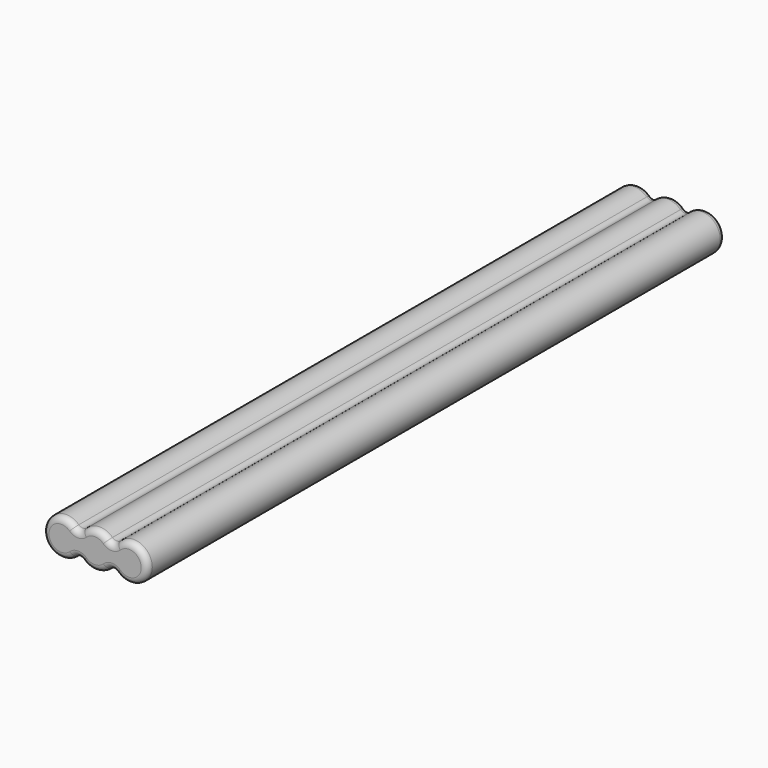
from build123d import *

# Parameters (mm, degrees)
F1_DEPTH = 74.6125
F2_R     = 1.27


with BuildPart() as f1:
    # F0 (on Front) → F1 (new body, symmetric)
    with BuildSketch(Plane.XZ):
        with BuildLine():
            ThreePointArc((-4.3248169823, -2.7897392181), (-3.4598535858, -2.4496522908), (-2.5948901894, -2.7897392181))
            ThreePointArc((-2.5948901894, -2.7897392181), (0.0337182552, -3.8098507949), (2.6438598106, -2.7433748015))
            ThreePointArc((2.6438598106, -2.7433748015), (3.5251464142, -2.3878330687), (4.4064330177, -2.7433748015))
            ThreePointArc((4.4064330177, -2.7433748015), (10.8602928284, 0), (4.4064330177, 2.7433748015))
            ThreePointArc((4.4064330177, 2.7433748015), (3.5251464142, 2.3878330687), (2.6438598106, 2.7433748015))
            ThreePointArc((2.6438598106, 2.7433748015), (0.0337182552, 3.8098507949), (-2.5948901894, 2.7897392181))
            ThreePointArc((-2.5948901894, 2.7897392181), (-3.4598535858, 2.4496522908), (-4.3248169823, 2.7897392181))
            ThreePointArc((-4.3248169823, 2.7897392181), (-10.7297071716, 0), (-4.3248169823, -2.7897392181))
        make_face()
    extrude(amount=F1_DEPTH, both=True)

    # F2
    f2_edges = [f1.edges().sort_by_distance(p)[0] for p in [
        (0.033718, -74.6125, -3.809851),
        (10.860293, 74.6125, 0),
    ]]
    fillet(f2_edges, radius=F2_R)


solid = f1.part
